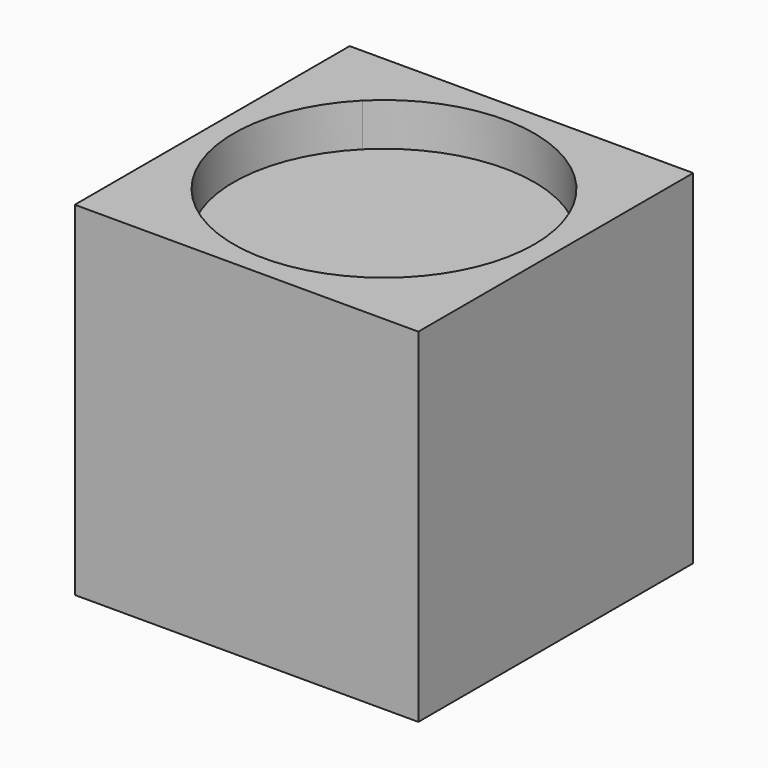
from build123d import *

# Parameters (mm, degrees)
F0_W     = 50.8
F0_H     = 50.8
F1_DEPTH = 50.8
F3_DEPTH = 6.35


with BuildPart() as f1:
    # F0 (on Top) → F1 (new body)
    with BuildSketch(Plane.XY):
        with Locations((-25.4, -25.4)):
            Rectangle(F0_W, F0_H)
    extrude(amount=F1_DEPTH)

    # F2 (on face) → F3 (cut)
    with BuildSketch(Plane.XY.offset(50.8)):
        with BuildLine():
            ThreePointArc((-9.684552, -41.115448), (-4.866777, -33.905139), (-3.175, -25.4))
            ThreePointArc((-3.175, -25.4), (-16.894861, -4.866777), (-41.115448, -9.684552))
            Line((-41.115448, -9.684552), (-9.684552, -41.115448))
        make_face()
        with BuildLine():
            Line((-9.684552, -41.115448), (-41.115448, -9.684552))
            ThreePointArc((-41.115448, -9.684552), (-41.115448, -41.115448), (-9.684552, -41.115448))
        make_face()
    extrude(amount=-F3_DEPTH, mode=Mode.SUBTRACT)


solid = f1.part
